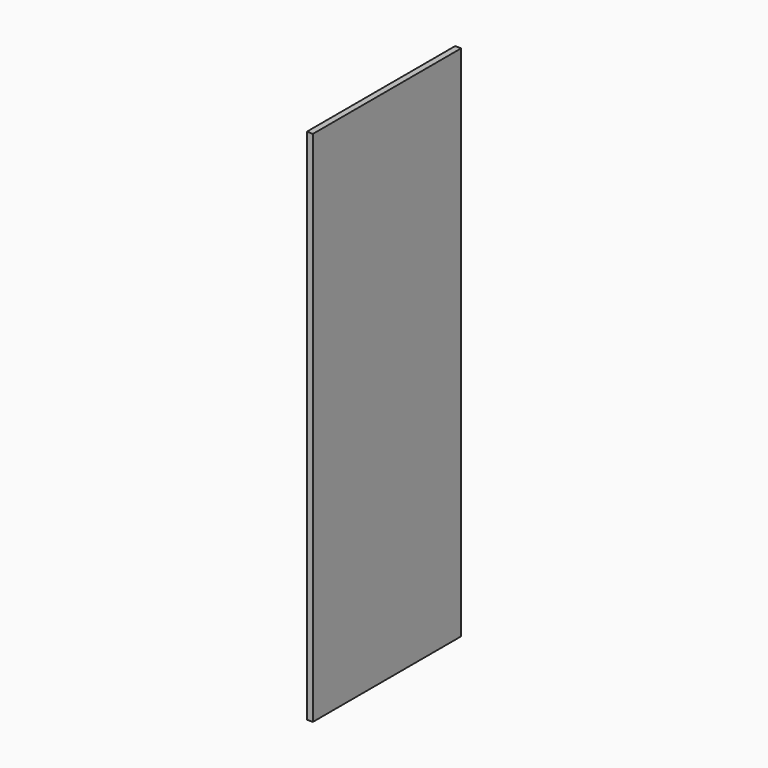
from build123d import *

# Parameters (mm, degrees)
F0_W     = 584.2
F0_H     = 1631.95
F1_DEPTH = 19.05
F3_D     = 5.0038
F3_DEPTH = 14.224
F3_TIP   = 1.5032931827


with BuildPart() as f1:
    # F0 (on Right) → F1 (new body)
    with BuildSketch(Plane.YZ):
        Rectangle(F0_W, F0_H)
    extrude(amount=F1_DEPTH)

    # F3
    with Locations(Plane(origin=(0, 0, 0), x_dir=(0, -1, 0), z_dir=(-1, 0, 0))):
        with Locations((-228.6, -41.275), (-228.6, -73.025), (-228.6, -104.775), (-228.6, -136.525), (-228.6, -168.275), (-228.6, -200.025), (-228.6, -231.775), (-228.6, -263.525), (-228.6, -295.275), (-228.6, -327.025), (-228.6, -358.775), (-228.6, -390.525), (-228.6, -422.275), (-228.6, -485.775), (-228.6, -517.525), (-228.6, -549.275), (-228.6, -581.025), (-228.6, -454.025), (228.6, -41.275), (228.6, -73.025), (228.6, -104.775), (228.6, -136.525), (228.6, -168.275), (228.6, -200.025), (228.6, -231.775), (228.6, -263.525), (228.6, -295.275), (228.6, -327.025), (228.6, -358.775), (228.6, -390.525), (228.6, -422.275), (228.6, -454.025), (228.6, -485.775), (228.6, -517.525), (228.6, -549.275), (228.6, -581.025), (228.6, -295.275), (228.6, -327.025), (228.6, -358.775), (228.6, -390.525), (228.6, -422.275), (228.6, -454.025), (228.6, -485.775), (228.6, -517.525), (228.6, -549.275), (228.6, -581.025)):
            Hole(F3_D / 2, depth=F3_DEPTH)
            with Locations((0, 0, -(F3_DEPTH + F3_TIP / 2))):  # 118° drill point
                Cone(0, F3_D / 2, F3_TIP, mode=Mode.SUBTRACT)


solid = f1.part
